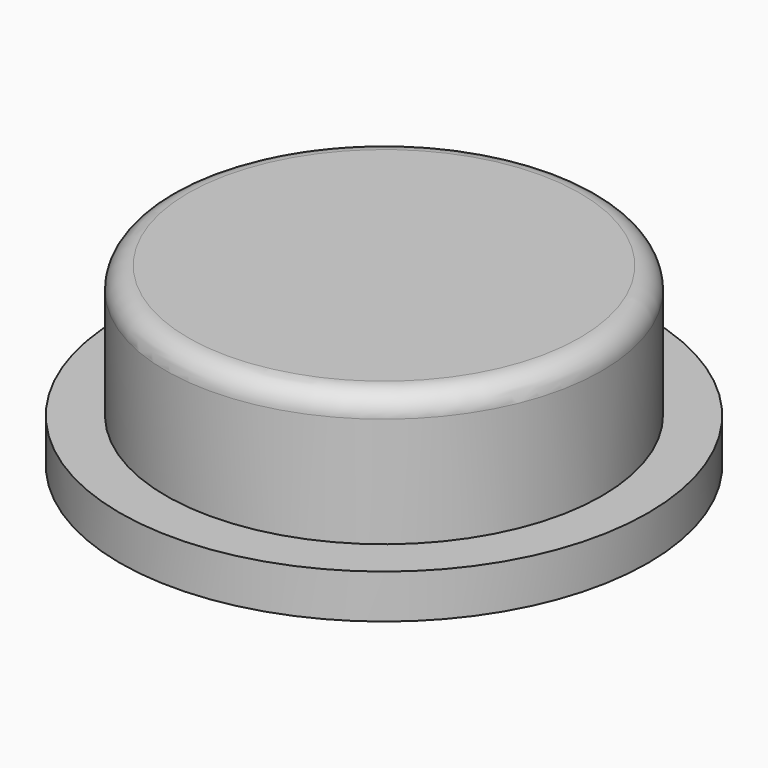
from build123d import *

# Parameters (mm, degrees)
F0_R     = 4.95
F1_DEPTH = 4
F2_R     = 6
F2_R_2   = 4.95
F3_DEPTH = 1
F4_R     = 0.5


with BuildPart() as f1:
    # F0 (on Top) → F1 (new body)
    with BuildSketch(Plane.XY):
        with Locations((-42.84095, 43.441828)):
            Circle(F0_R)
    extrude(amount=F1_DEPTH)

    # F2 (on face) → F3 (join)
    with BuildSketch(Plane(origin=(0, 0, 0), x_dir=(1, 0, 0), z_dir=(0, 0, -1))):
        with Locations((-42.84095, -43.441828)):
            Circle(F2_R)
        with Locations((-42.84095, -43.441828)):
            Circle(F2_R_2, mode=Mode.SUBTRACT)
    extrude(amount=-F3_DEPTH)

    # F4
    f4_edges = [f1.edges().sort_by_distance(p)[0] for p in [
        (-47.79095, 43.441828, 4),
    ]]
    fillet(f4_edges, radius=F4_R)


solid = f1.part
